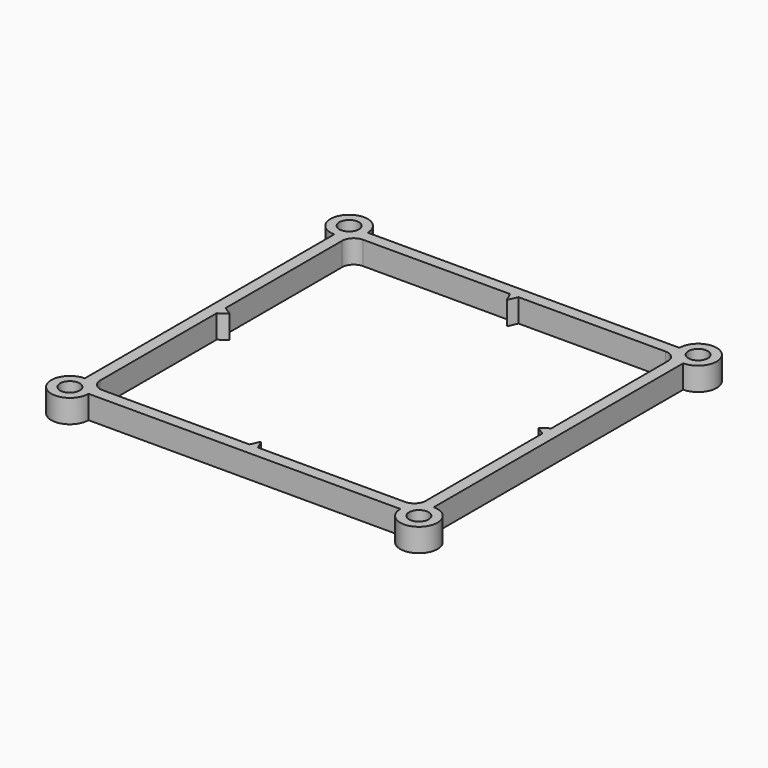
from build123d import *

# Parameters (mm, degrees)
F0_R     = 2.1
F1_DEPTH = 5


with BuildPart() as f1:
    # F0 (on Top) → F1 (new body)
    with BuildSketch(Plane.XY):
        with BuildLine():
            ThreePointArc((37.5, 33.5), (40.328427, 40.328427), (33.5, 37.5))
            Line((33.5, 37.5), (-33.5, 37.5))
            ThreePointArc((-33.5, 37.5), (-40.328427, 40.328427), (-37.5, 33.5))
            Line((-37.5, 33.5), (-37.5, -33.5))
            ThreePointArc((-37.5, -33.5), (-40.328427, -40.328427), (-33.5, -37.5))
            Line((-33.5, -37.5), (33.5, -37.5))
            ThreePointArc((33.5, -37.5), (40.328427, -40.328427), (37.5, -33.5))
            Line((37.5, -33.5), (37.5, 33.5))
        make_face()
        with Locations((-37.5, -37.5)):
            Circle(F0_R, mode=Mode.SUBTRACT)
        with BuildLine():
            Line((0.916515, 35), (32.5, 35))
            ThreePointArc((32.5, 35), (34.267767, 34.267767), (35, 32.5))
            Line((35, 32.5), (35, 1.208235))
            Line((35, 1.208235), (33.161476, 0))
            Line((33.161476, 0), (35, -1.208235))
            Line((35, -1.208235), (35, -32.5))
            ThreePointArc((35, -32.5), (34.267767, -34.267767), (32.5, -35))
            Line((32.5, -35), (0.916515, -35))
            Line((0.916515, -35), (0, -33))
            Line((0, -33), (-0.916515, -35))
            Line((-0.916515, -35), (-32.5, -35))
            ThreePointArc((-32.5, -35), (-34.267767, -34.267767), (-35, -32.5))
            Line((-35, -32.5), (-35, -1.208235))
            Line((-35, -1.208235), (-33.161476, 0))
            Line((-33.161476, 0), (-35, 1.208235))
            Line((-35, 1.208235), (-35, 32.5))
            ThreePointArc((-35, 32.5), (-34.267767, 34.267767), (-32.5, 35))
            Line((-32.5, 35), (-0.916515, 35))
            Line((-0.916515, 35), (0, 33))
            Line((0, 33), (0.916515, 35))
        make_face(mode=Mode.SUBTRACT)
        with Locations((37.5, -37.5)):
            Circle(F0_R, mode=Mode.SUBTRACT)
        with Locations((-37.5, 37.5)):
            Circle(F0_R, mode=Mode.SUBTRACT)
        with Locations((37.5, 37.5)):
            Circle(F0_R, mode=Mode.SUBTRACT)
    extrude(amount=F1_DEPTH)


solid = f1.part
